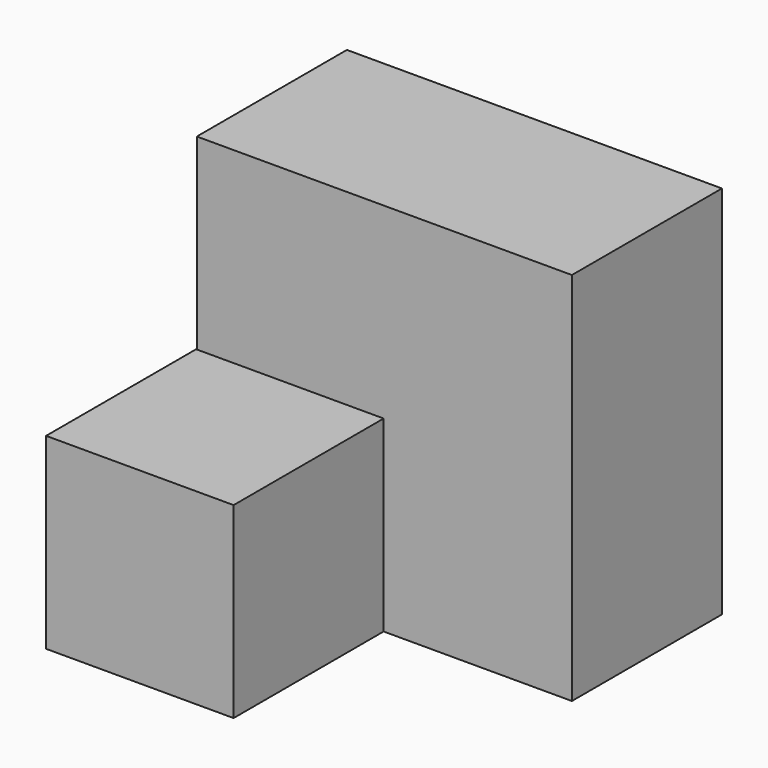
from build123d import *

# Parameters (mm, degrees)
F1_W     = 50.79394
F1_H     = 50.793938
F2_DEPTH = 25.4
F0_W     = 25.396969
F0_H     = 25.396969
F3_DEPTH = 25.4


with BuildPart() as f2:
    # F1 (on Front) → F2 (new body)
    with BuildSketch(Plane.XZ):
        with Locations((-50.884868, -50.602984)):
            Rectangle(F1_W, F1_H)
    extrude(amount=-F2_DEPTH)

    # F0 (on Front) → F3 (join)
    with BuildSketch(Plane.XZ):
        with Locations((-63.683377, -63.301468)):
            Rectangle(F0_W, F0_H)
    extrude(amount=F3_DEPTH)


solid = f2.part
